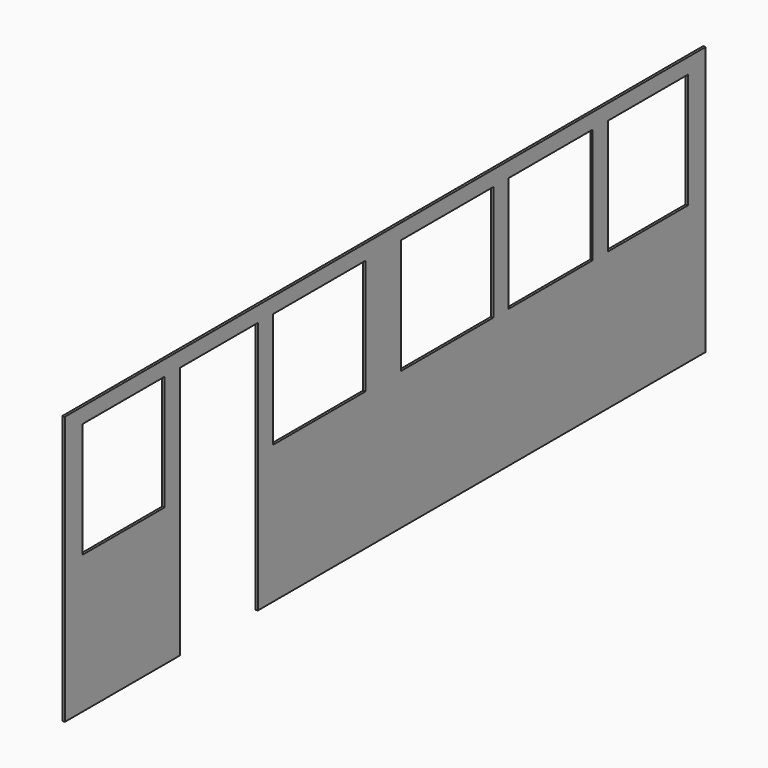
from build123d import *

# Parameters (mm, degrees)
F0_W     = 800
F0_H     = 900
F0_W_2   = 900
F0_W_3   = 822
F0_W_4   = 779
F1_DEPTH = 19


with BuildPart() as f1:
    # F0 (on Right) → F1 (new body)
    with BuildSketch(Plane.YZ):
        Polygon((0, 2100), (0, 0), (1124, 0), (1124, 1980), (1886, 1980), (1886, 0), (6262, 0), (6262, 2100), align=None)
        with Locations((574, 1530)):
            Rectangle(F0_W, F0_H, mode=Mode.SUBTRACT)
        with Locations((2486, 1530)):
            Rectangle(F0_W_2, F0_H, mode=Mode.SUBTRACT)
        with Locations((3737, 1530)):
            Rectangle(F0_W_2, F0_H, mode=Mode.SUBTRACT)
        with Locations((4748, 1530)):
            Rectangle(F0_W_3, F0_H, mode=Mode.SUBTRACT)
        with Locations((5698.5, 1530)):
            Rectangle(F0_W_4, F0_H, mode=Mode.SUBTRACT)
    extrude(amount=F1_DEPTH)


solid = f1.part
